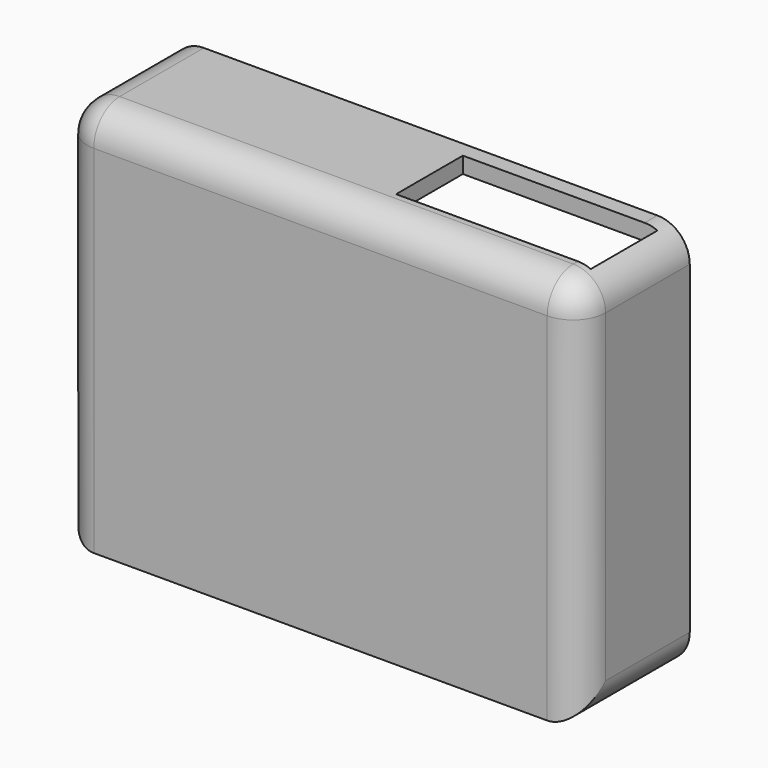
from build123d import *

# Parameters (mm, degrees)
F0_W     = 160
F0_H     = 120
F1_DEPTH = 42.5
F2_R     = 10
F3_W     = 155
F3_H     = 110
F4_DEPTH = 35
F5_W     = 60.082482
F5_H     = 25.754019
F6_DEPTH = 5.001


with BuildPart() as f1:
    # F0 (on Front) → F1 (new body)
    with BuildSketch(Plane.XZ):
        with Locations((7.578965, 2.318726)):
            Rectangle(F0_W, F0_H)
    extrude(amount=F1_DEPTH)

    # F2
    f2_edges = [f1.edges().sort_by_distance(p)[0] for p in [
        (87.578965, -21.25, 62.318726),
        (-72.421035, -21.25, 62.318726),
        (87.578965, -21.25, -57.681274),
        (-72.421035, -21.25, -57.681274),
        (-72.421035, -42.5, 2.318726),
        (87.578965, -42.5, 2.318726),
        (7.578965, -42.5, 62.318726),
    ]]
    fillet(f2_edges, radius=F2_R)

    # F3 (on Front) → F4 (cut)
    with BuildSketch(Plane.XZ):
        with Locations((7.578965, 2.318726)):
            Rectangle(F3_W, F3_H)
    extrude(amount=F4_DEPTH, mode=Mode.SUBTRACT)

    # F5 (on face) → F6 (cut, through all)
    with BuildSketch(Plane(origin=(0, 0, 57.318726), x_dir=(1, 0, 0), z_dir=(0, 0, -1))):
        with Locations((51.495171, 17.789639)):
            Rectangle(F5_W, F5_H)
    extrude(amount=-F6_DEPTH, mode=Mode.SUBTRACT)


solid = f1.part
